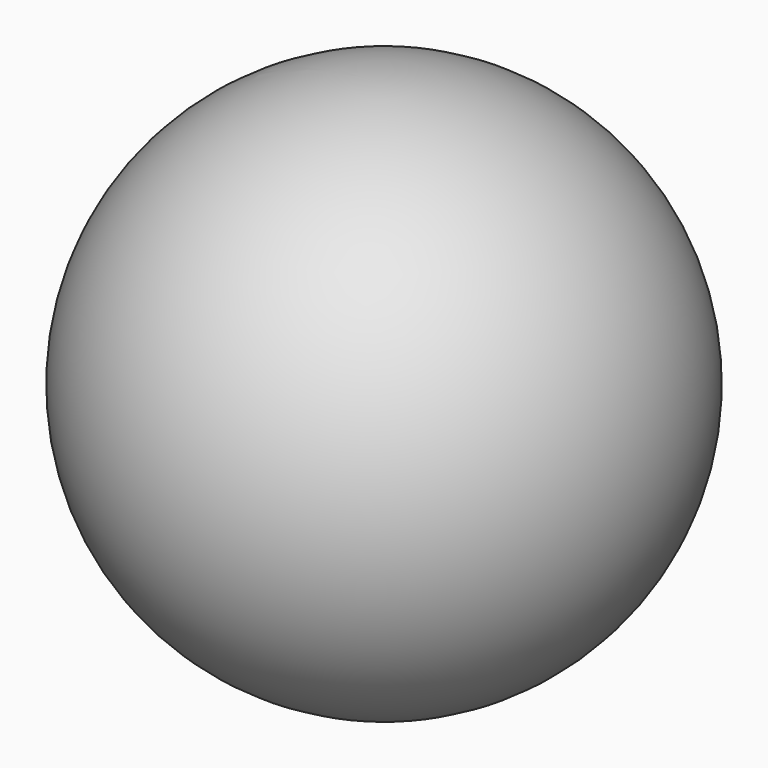
from build123d import *


with BuildPart() as part:
    # Sketch → Revolution (revolve)
    with BuildSketch(Plane.XZ):
        with BuildLine():
            ThreePointArc((0, 20), (-20, 0), (0, -20))
            Line((0, 20), (0, -20))
        make_face()
    revolve(axis=Axis((0, 0, 0), (0, 0, 1)))


solid = part.part
